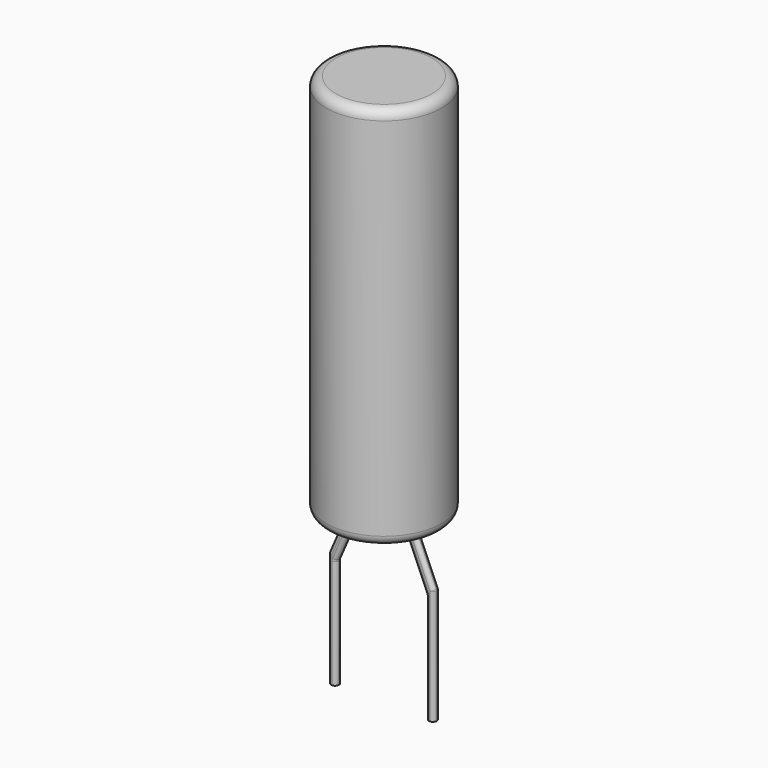
from build123d import *

# Parameters (mm, degrees)
PAD_DEPTH = 0.1
FILLET_R  = 0.096


with BuildPart() as revolution:
    # Sketch002 → Revolution (revolve)
    with BuildSketch(Plane.XZ):
        with BuildLine():
            Line((0.02, 11.46), (1.27, 11.46))
            Line((1.27, 1.46), (1.27, 11.46))
            Line((1.27, 1.46), (0.02, 1.46))
            ThreePointArc((-0.23, 1.71), (-0.156777, 1.533223), (0.02, 1.46))
            Line((-0.23, 1.71), (-0.23, 11.21))
            ThreePointArc((0.02, 11.46), (-0.156777, 11.386777), (-0.23, 11.21))
        make_face()
    revolve(axis=Axis((1.27, 0, 11.46), (0, 0, -1)))


with BuildPart() as fillet_body:
    # Sketch → Pad (new body, symmetric)
    with BuildSketch(Plane.XZ):
        Polygon((0.1, -2.85), (0.1, 0.008579), (0.62, 1.208579), (0.62, 1.5), (0.42, 1.5), (0.42, 1.35), (-0.1, 0.15), (-0.1, -2.85), align=None)
        Polygon((1.92, 1.5), (2.12, 1.5), (2.12, 1.35), (2.64, 0.15), (2.64, -2.85), (2.44, -2.85), (2.44, 0.008579), (1.92, 1.208579), align=None)
    extrude(amount=PAD_DEPTH, both=True)

    # Fillet
    fillet_edges = [fillet_body.edges().sort_by_distance(p)[0] for p in [
        (0.1, -0.1, -1.420711),
        (0.1, 0.1, -1.420711),
        (0.36, -0.1, 0.608579),
        (0.36, 0.1, 0.608579),
        (0.62, -0.1, 1.354289),
        (0.62, 0.1, 1.354289),
        (0.42, -0.1, 1.425),
        (0.16, -0.1, 0.75),
        (-0.1, -0.1, -1.35),
        (2.44, -0.1, -1.420711),
        (2.18, -0.1, 0.608579),
        (1.92, -0.1, 1.354289),
        (2.12, -0.1, 1.425),
        (2.38, -0.1, 0.75),
        (2.64, -0.1, -1.35),
        (2.64, 0.1, -1.35),
        (2.38, 0.1, 0.75),
        (2.12, 0.1, 1.425),
        (2.64, 0, 0.15),
        (2.12, 0, 1.35),
        (1.92, 0.1, 1.354289),
        (2.18, 0.1, 0.608579),
        (2.44, 0.1, -1.420711),
        (0.16, 0.1, 0.75),
        (0.42, 0.1, 1.425),
        (-0.1, 0.1, -1.35),
        (0.1, 0, 0.008579),
        (-0.1, 0, 0.15),
        (0.42, 0, 1.35),
        (1.92, 0, 1.208579),
        (2.44, 0, 0.008579),
    ]]
    fillet(fillet_edges, radius=FILLET_R)


solid = Compound([revolution.part, fillet_body.part])
